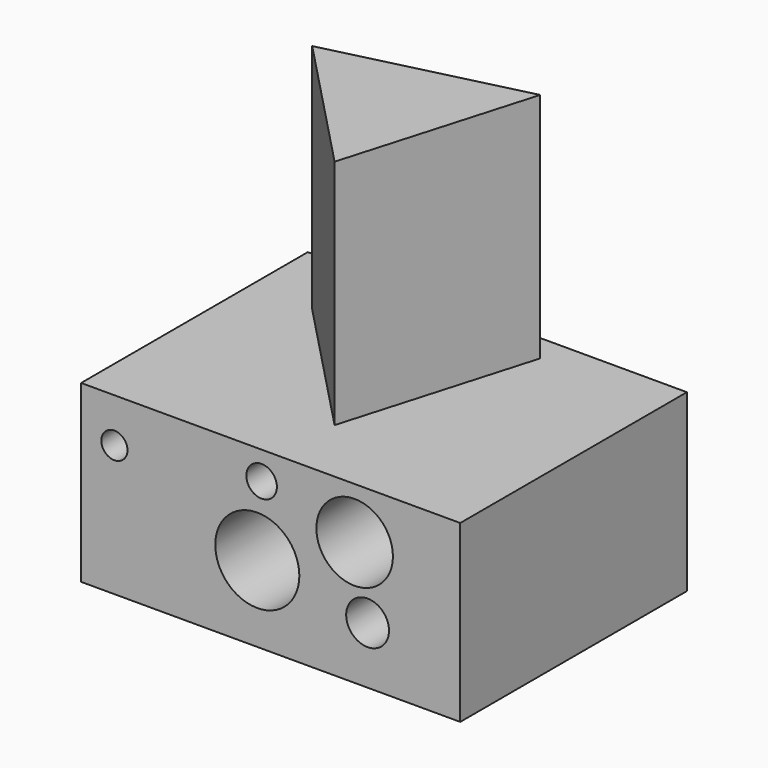
from build123d import *

# Parameters (mm, degrees)
F0_W     = 118.970122
F0_H     = 54.950323
F0_R     = 13.191556
F0_R_2   = 6.719496
F0_R_3   = 4.107262
F0_R_4   = 4.798819
F0_R_5   = 12.010022
F1_DEPTH = 88.9
F3_DEPTH = 93.98


with BuildPart() as f1:
    # F0 (on Front) → F1 (new body)
    with BuildSketch(Plane.XZ):
        with Locations((20.006189, -6.268603)):
            Rectangle(F0_W, F0_H)
        with Locations((15.80747, -9.807219)):
            Circle(F0_R, mode=Mode.SUBTRACT)
        with Locations((50.417498, -15.826354)):
            Circle(F0_R_2, mode=Mode.SUBTRACT)
        with Locations((-29.035088, 7.347315)):
            Circle(F0_R_3, mode=Mode.SUBTRACT)
        with Locations((17.161777, 12.463582)):
            Circle(F0_R_4, mode=Mode.SUBTRACT)
        with Locations((46.354581, 5.09014)):
            Circle(F0_R_5, mode=Mode.SUBTRACT)
    extrude(amount=F1_DEPTH)

    # F2 (on Top) → F3 (join)
    with BuildSketch(Plane.XY):
        Polygon((23.00154, -67.576603), (40.219564, -8.440484), (-19.602828, -23.097298), align=None)
    extrude(amount=F3_DEPTH)


solid = f1.part
